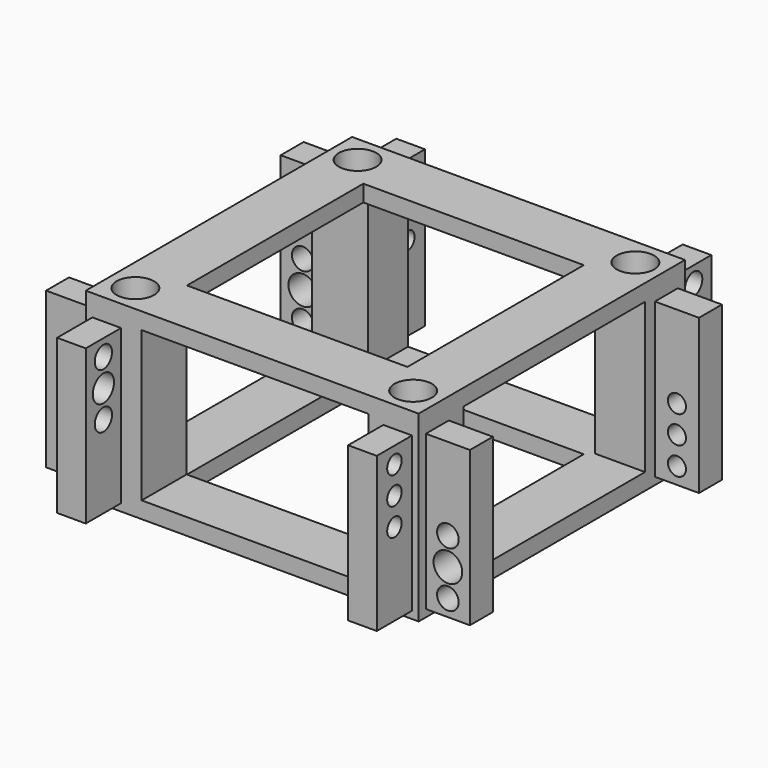
from build123d import *

# Parameters (mm, degrees)
F0_R      = 2.159
F1_DEPTH  = 21.082
F2_W      = 26.162
F2_H      = 17.272
F4_DEPTH  = 38.355
F3_W      = 26.162
F3_H      = 17.272
F5_DEPTH  = 38.355
F2_W_2    = 0.635
F2_H_2    = 17.7696704889
F6_DEPTH  = 5.08
F3_W_2    = 0.635
F3_H_2    = 17.78
F7_DEPTH  = 5.08
F9_W      = 3.302
F9_H      = 17.9293047404
F10_DEPTH = 5.08
F8_W      = 0.635
F8_H      = 17.9293047404
F11_DEPTH = 5.08
F12_R     = 1.2446
F12_R_2   = 1.651
F13_DEPTH = 11.43
F14_R     = 1.2446
F14_R_2   = 1.651
F15_DEPTH = 11.43
F16_R     = 1.524
F16_R_2   = 1.2446
F17_DEPTH = 11.43
F19_R     = 1.2446
F19_R_2   = 1.651
F20_DEPTH = 11.43
F21_W     = 25.399999693
F21_H     = 25.399999693
F22_DEPTH = 21.083
F23_DEPTH = 2.667
F24_DEPTH = 2.667
F25_DEPTH = 2.667
F26_DEPTH = 2.667
F27_DEPTH = 2.667
F28_DEPTH = 2.667
F29_R     = 1.0414
F30_DEPTH = 11.43
F32_R     = 1.0414
F33_DEPTH = 11.43
F34_R     = 1.0414
F35_DEPTH = 11.43
F36_R     = 1.0414
F37_DEPTH = 11.43


with BuildPart() as f1:
    # F0 (on Top) → F1 (new body)
    with BuildSketch(Plane.XY):
        Polygon((17.906382707, 19.177), (-17.907, 19.177), (-19.177, 19.177), (-19.177, 17.907), (-19.177, -17.907), (-19.177, -19.177), (-17.9054846503, -19.177), (17.907, -19.177), (19.177, -19.177), (19.177, -17.907), (19.177, 17.907), (19.177, 19.177), (17.907, 19.177), align=None)
        with Locations((-16.002, -16.002)):
            Circle(F0_R, mode=Mode.SUBTRACT)
        with Locations((16.002, -16.002)):
            Circle(F0_R, mode=Mode.SUBTRACT)
        with Locations((-16.002, 16.002)):
            Circle(F0_R, mode=Mode.SUBTRACT)
        with Locations((16.002, 16.002)):
            Circle(F0_R, mode=Mode.SUBTRACT)
    extrude(amount=F1_DEPTH)

    # F2 (on face) → F4 (cut, through all)
    with BuildSketch(Plane.XZ.offset(19.177)):
        with Locations((0.3429, 10.541)):
            Rectangle(F2_W, F2_H)
    extrude(amount=-F4_DEPTH, mode=Mode.SUBTRACT)

    # F3 (on face) → F5 (cut, through all)
    with BuildSketch(Plane.YZ.offset(19.177)):
        with Locations((0.3429, 10.541)):
            Rectangle(F3_W, F3_H)
    extrude(amount=-F5_DEPTH, mode=Mode.SUBTRACT)

    # F2 (on face) → F6 (join)
    with BuildSketch(Plane.XZ.offset(19.177)):
        with Locations((18.0975, 9.7333647556)):
            Rectangle(F2_W_2, F2_H_2)
        with Locations((-18.0975, 9.7333647556)):
            Rectangle(F2_W_2, F2_H_2)
    extrude(amount=F6_DEPTH)

    # F3 (on face) → F7 (join)
    with BuildSketch(Plane.YZ.offset(19.177)):
        with Locations((-17.828373853, 9.73836)):
            Rectangle(F3_W_2, F3_H_2)
        with Locations((17.828373853, 9.73836)):
            Rectangle(F3_W_2, F3_H_2)
    extrude(amount=F7_DEPTH)

    # F9 (on face) → F10 (join)
    with BuildSketch(Plane(origin=(0, 19.177, 0), x_dir=(-1, 0, 0), z_dir=(0, 1, 0))):
        with Locations((-16.49476, 10.2123476298)):
            Rectangle(F9_W, F9_H)
        with Locations((16.49476, 10.2123476298)):
            Rectangle(F9_W, F9_H)
    extrude(amount=F10_DEPTH)

    # F8 (on face) → F11 (join)
    with BuildSketch(Plane(origin=(-19.177, 0, 0), x_dir=(0, -1, 0), z_dir=(-1, 0, 0))):
        with Locations((-18.2245, 10.2123476298)):
            Rectangle(F8_W, F8_H)
        with Locations((18.2245, 10.2123476298)):
            Rectangle(F8_W, F8_H)
    extrude(amount=F11_DEPTH)

    # F12 (on face) → F13 (cut)
    with BuildSketch(Plane(origin=(0, 18.542, 0), x_dir=(-1, 0, 0), z_dir=(0, 1, 0))):
        with Locations((21.717, 3.1526952596)):
            Circle(F12_R)
        with Locations((21.717, 6.3276952596)):
            Circle(F12_R_2)
        with Locations((21.717, 9.5026952596)):
            Circle(F12_R)
    extrude(amount=-F13_DEPTH, mode=Mode.SUBTRACT)

    # F14 (on face) → F15 (cut)
    with BuildSketch(Plane.YZ.offset(18.14576)):
        with Locations((21.717, 10.8458)):
            Circle(F14_R)
        with Locations((21.717, 14.097)):
            Circle(F14_R_2)
        with Locations((21.717, 17.272)):
            Circle(F14_R)
    extrude(amount=-F15_DEPTH, mode=Mode.SUBTRACT)

    # F16 (on face) → F17 (cut)
    with BuildSketch(Plane(origin=(-18.415, 0, 0), x_dir=(0, -1, 0), z_dir=(-1, 0, 0))):
        with Locations((21.717, 13.5382)):
            Circle(F16_R)
        with Locations((21.717, 10.3632)):
            Circle(F16_R_2)
        with Locations((21.717, 16.7132)):
            Circle(F16_R_2)
    extrude(amount=-F17_DEPTH, mode=Mode.SUBTRACT)

    # F19 (on face) → F20 (cut)
    with BuildSketch(Plane.XZ.offset(18.145873853)):
        with Locations((21.717, 2.75336)):
            Circle(F19_R)
        with Locations((21.717, 5.92836)):
            Circle(F19_R_2)
        with Locations((21.717, 9.10336)):
            Circle(F19_R)
    extrude(amount=-F20_DEPTH, mode=Mode.SUBTRACT)

    # F21 (on face) → F22 (cut, through all)
    with BuildSketch(Plane.XY.offset(21.082)):
        Rectangle(F21_W, F21_H)
    extrude(amount=-F22_DEPTH, mode=Mode.SUBTRACT)

    # F23 (add): a face of the model
    f23_faces = [f1.faces().sort_by_distance(p)[0] for p in [
        (-21.717, 17.907, 11.1888492438),
    ]]
    extrude(f23_faces, amount=F23_DEPTH)

    # F24 (add): a face of the model
    f24_faces = [f1.faces().sort_by_distance(p)[0] for p in [
        (-21.717, -17.907, 10.2123476298),
    ]]
    extrude(f24_faces, amount=F24_DEPTH)

    # F25 (add): a face of the model
    f25_faces = [f1.faces().sort_by_distance(p)[0] for p in [
        (17.78, -21.717, 9.7333647556),
    ]]
    extrude(f25_faces, amount=F25_DEPTH)

    # F26 (add): a face of the model
    f26_faces = [f1.faces().sort_by_distance(p)[0] for p in [
        (-17.78, -21.717, 8.8486881726),
    ]]
    extrude(f26_faces, amount=F26_DEPTH)

    # F27 (add): a face of the model
    f27_faces = [f1.faces().sort_by_distance(p)[0] for p in [
        (21.717, -17.510873853, 10.7061813162),
    ]]
    extrude(f27_faces, amount=F27_DEPTH)

    # F28 (add): a face of the model
    f28_faces = [f1.faces().sort_by_distance(p)[0] for p in [
        (21.717, 17.510873853, 9.73836),
    ]]
    extrude(f28_faces, amount=F28_DEPTH)

    # F29 (on face) → F30 (cut)
    with BuildSketch(Plane(origin=(0, 18.145873853, 0), x_dir=(-1, 0, 0), z_dir=(0, 1, 0))):
        with Locations((-21.717, 5.9341536835)):
            Circle(F29_R)
        with Locations((-21.717, 9.10336)):
            Circle(F29_R)
        with Locations((-21.717, 2.7551189996)):
            Circle(F29_R)
    extrude(amount=-F30_DEPTH, mode=Mode.SUBTRACT)

    # F32 (on face) → F33 (cut)
    with BuildSketch(Plane(origin=(-18.14576, 0, 0), x_dir=(0, -1, 0), z_dir=(-1, 0, 0))):
        with Locations((-21.717, 17.272)):
            Circle(F32_R)
        with Locations((-21.717, 14.097)):
            Circle(F32_R)
        with Locations((-21.717, 10.922)):
            Circle(F32_R)
    extrude(amount=-F33_DEPTH, mode=Mode.SUBTRACT)

    # F34 (on face) → F35 (cut)
    with BuildSketch(Plane.XZ.offset(18.542)):
        with Locations((-21.717, 9.5026952596)):
            Circle(F34_R)
        with Locations((-21.717, 6.3276952596)):
            Circle(F34_R)
        with Locations((-21.717, 3.1526952596)):
            Circle(F34_R)
    extrude(amount=-F35_DEPTH, mode=Mode.SUBTRACT)

    # F36 (on face) → F37 (cut)
    with BuildSketch(Plane.YZ.offset(18.415)):
        with Locations((-21.717, 16.7132)):
            Circle(F36_R)
        with Locations((-21.717, 13.5382)):
            Circle(F36_R)
        with Locations((-21.717, 10.3632)):
            Circle(F36_R)
    extrude(amount=-F37_DEPTH, mode=Mode.SUBTRACT)


solid = f1.part
